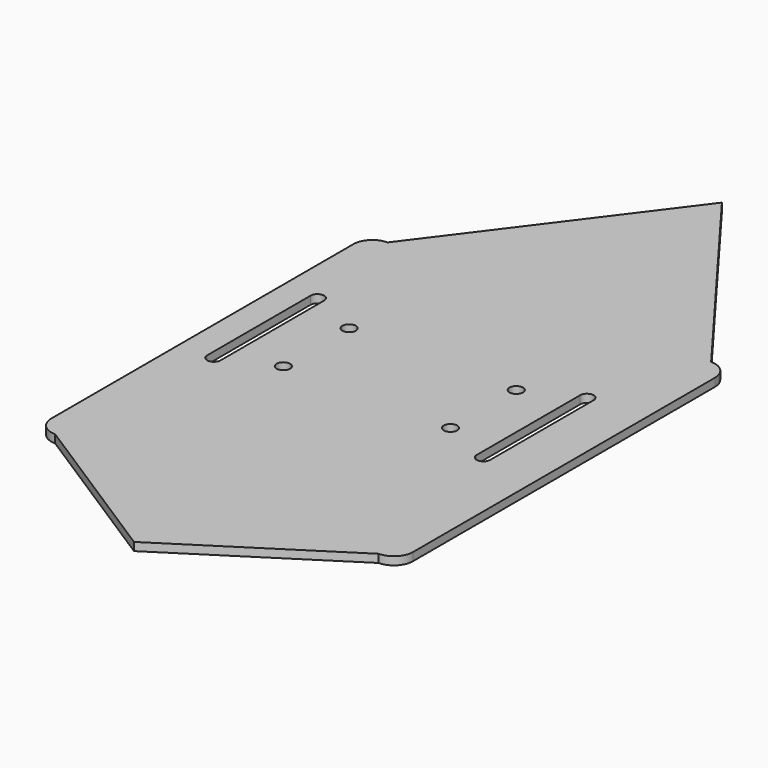
from build123d import *

# Parameters (mm, degrees)
F1_DEPTH = 3
F2_D     = 5
F3_D     = 5
F5_DEPTH = 25
F6_DEPTH = 25
F7_DEPTH = 3


with BuildPart() as f1:
    # F0 (on Top) → F1 (new body)
    with BuildSketch(Plane.XY):
        with BuildLine():
            ThreePointArc((7.0710678119, 40), (2.0710678119, 37.9289321881), (0, 32.9289321881))
            Line((0, 32.9289321881), (0, 0))
            Line((0, 0), (0, -107.0710678119))
            ThreePointArc((0, -107.0710678119), (2.0710678119, -112.0710678119), (7.0710678119, -114.1421356237))
            Line((7.0710678119, -114.1421356237), (127.0710678119, -114.1421356237))
            ThreePointArc((127.0710678119, -114.1421356237), (132.0710678119, -112.0710678119), (134.1421356237, -107.0710678119))
            Line((134.1421356237, -107.0710678119), (134.1421356237, 0))
            Line((134.1421356237, 0), (134.1421356237, 32.9289321881))
            ThreePointArc((134.1421356237, 32.9289321881), (132.0710678119, 37.9289321881), (127.0710678119, 40))
            Line((127.0710678119, 40), (7.0710678119, 40))
        make_face()
    extrude(amount=F1_DEPTH)

    # F2 (through all)
    with Locations(Plane(origin=(0, 0, 0), x_dir=(1, 0, 0), z_dir=(0, 0, -1))):
        with Locations((94, 9.0260861005), (32, 9.0260861005)):
            Hole(F2_D / 2)

    # F3 (through all)
    with Locations(Plane(origin=(0, 0, 0), x_dir=(1, 0, 0), z_dir=(0, 0, -1))):
        with Locations((32, 39.5260861005), (94, 39.5260861005)):
            Hole(F3_D / 2)

    # F4 (on face) → F5 (cut)
    with BuildSketch(Plane.XY.offset(3)):
        with BuildLine():
            ThreePointArc((115.5, 0), (113, 2.5), (110.5, 0))
            Line((110.5, 0), (110.5, -48))
            ThreePointArc((110.5, -48), (113, -50.5), (115.5, -48))
            Line((115.5, -48), (115.5, 0))
        make_face()
    extrude(amount=-F5_DEPTH, mode=Mode.SUBTRACT)

    # F4 (on face) → F6 (cut)
    with BuildSketch(Plane.XY.offset(3)):
        with BuildLine():
            ThreePointArc((15.5, 0), (13, 2.5), (10.5, 0))
            Line((10.5, 0), (10.5, -48))
            ThreePointArc((10.5, -48), (13, -50.5), (15.5, -48))
            Line((15.5, -48), (15.5, 0))
        make_face()
    extrude(amount=-F6_DEPTH, mode=Mode.SUBTRACT)

    # F0 (on Top) → F7 (join)
    with BuildSketch(Plane.XY):
        Polygon((67.0710678119, 120), (7.0710678119, 40), (127.0710678119, 40), align=None)
        Polygon((127.0710678119, -114.1421356237), (7.0710678119, -114.1421356237), (67.0710678119, -152.6137888432), align=None)
    extrude(amount=F7_DEPTH)


solid = f1.part
